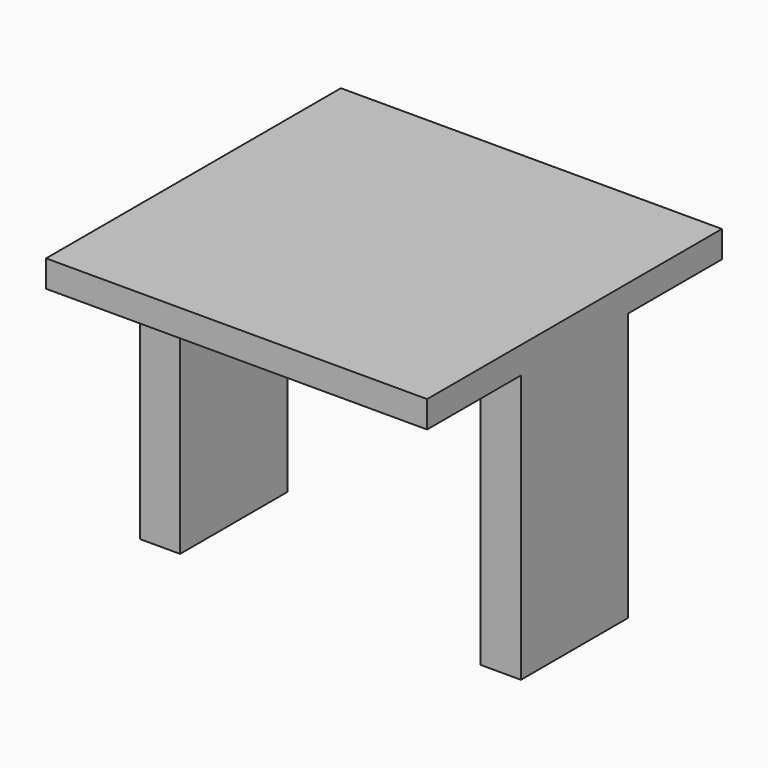
from build123d import *

# Parameters (mm, degrees)
F0_W     = 72.225
F0_H     = 69.85
F1_DEPTH = 5.08
F3_DEPTH = 50.8


with BuildPart() as f1:
    # F0 (on Top) → F1 (new body)
    with BuildSketch(Plane.XY):
        with Locations((-58.976147, 0.364591)):
            Rectangle(F0_W, F0_H)
    extrude(amount=F1_DEPTH)

    # F2 (on face) → F3 (join)
    with BuildSketch(Plane(origin=(0, 0, 0), x_dir=(1, 0, 0), z_dir=(0, 0, -1))):
        Polygon((-95.088647, 12.335409), (-95.088647, -0.364591), (-95.088647, -13.064591), (-87.468647, -13.064591), (-87.468647, 12.335409), align=None)
        Polygon((-22.863647, -0.364591), (-22.863647, 12.335409), (-30.483647, 12.335409), (-30.483647, -13.064591), (-22.863647, -13.064591), align=None)
    extrude(amount=F3_DEPTH)


solid = f1.part
